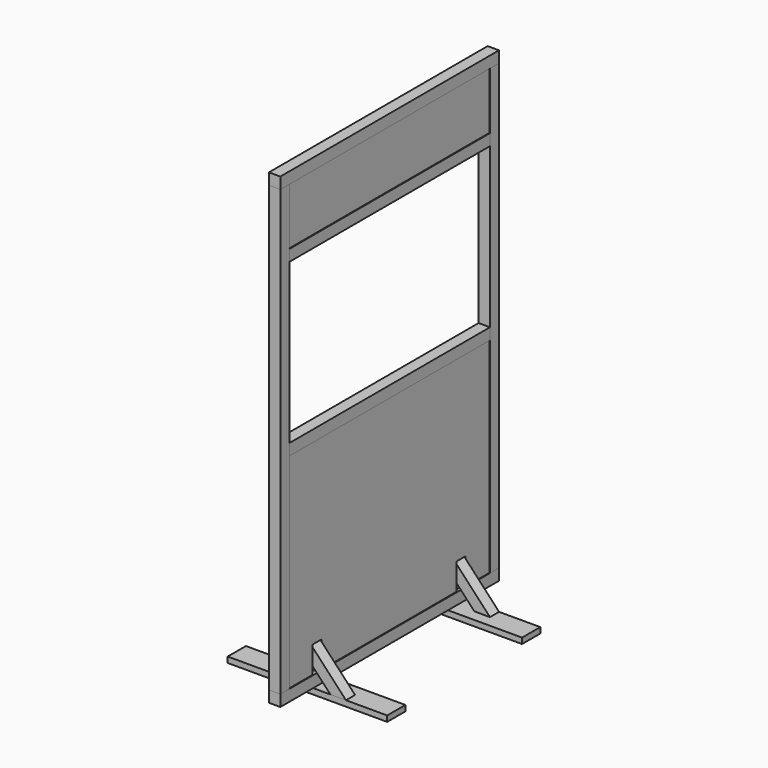
from build123d import *

# Parameters (mm, degrees)
F0_W           = 700
F0_H           = 100
F1_DEPTH       = 25
F3_W           = 50
F3_H           = 180
F3_H_2         = 100
F3_H_3         = 920
F4_DEPTH       = 50
F7_W           = 50
F7_H           = 50
F8_DEPTH       = 1950
F9_W           = 50
F9_H           = 1150
F9_H_2         = 50
F10_DEPTH      = 50
F11_W          = 50
F11_H          = 50
F12_DEPTH      = 1100
F14_DEPTH      = 13
F14_DEPTH_BACK = 13
F13_W          = 100
F13_H          = 250
F17_DEPTH      = 50
F21_DEPTH      = 9
F20_W          = 1100
F20_H          = 250


with BuildPart() as f1:
    # F0 (on Top) → F1 (new body)
    with BuildSketch(Plane.XY):
        with Locations((0, 370)):
            Rectangle(F0_W, F0_H)
    extrude(amount=F1_DEPTH)


with BuildPart() as f1b:
    # F0 (on Top) → F1, piece 2 (new body)
    with BuildSketch(Plane.XY):
        with Locations((0, -370)):
            Rectangle(F0_W, F0_H)
    extrude(amount=F1_DEPTH)


with BuildPart() as f4:
    # F3 (on face) → F4 (new body)
    with BuildSketch(Plane.XY.offset(25)):
        with Locations((0, -510)):
            Rectangle(F3_W, F3_H)
        with Locations((0, -370)):
            Rectangle(F3_W, F3_H_2)
        with Locations((0, 140)):
            Rectangle(F3_W, F3_H_3)
    extrude(amount=F4_DEPTH)


with BuildPart() as f8:
    # F7 (on face) → F8 (new body)
    with BuildSketch(Plane.XY.offset(75)):
        with Locations((0, -575)):
            Rectangle(F7_W, F7_H)
    extrude(amount=F8_DEPTH)


with BuildPart() as f8b:
    # F7 (on face) → F8, piece 2 (new body)
    with BuildSketch(Plane.XY.offset(75)):
        with Locations((0, 575)):
            Rectangle(F7_W, F7_H)
    extrude(amount=F8_DEPTH)


with BuildPart() as f10:
    # F9 (on face) → F10 (new body)
    with BuildSketch(Plane.XY.offset(2025)):
        with Locations((0, 25)):
            Rectangle(F9_W, F9_H)
        with Locations((0, -575)):
            Rectangle(F9_W, F9_H_2)
    extrude(amount=F10_DEPTH)


with BuildPart() as f12:
    # F11 (on face) → F12 (new body)
    with BuildSketch(Plane.XZ.offset(-550)):
        with Locations((0, 1000)):
            Rectangle(F11_W, F11_H)
    extrude(amount=F12_DEPTH)


with BuildPart() as f12b:
    # F11 (on face) → F12, piece 2 (new body)
    with BuildSketch(Plane.XZ.offset(-550)):
        with Locations((0, 1750)):
            Rectangle(F11_W, F11_H)
    extrude(amount=F12_DEPTH)


with BuildPart() as f14:
    # F13 (on Right) → F14 (new body, two sides)
    with BuildSketch(Plane.YZ) as f14_sk:
        Polygon((-249.2936508852, 975), (-390.6649114874, 975), (-550, 815.5519290026), (-550, 674.0804238375), align=None)
    extrude(amount=F14_DEPTH)
    extrude(f14_sk.sketch, amount=-F14_DEPTH_BACK)


with BuildPart() as f14b:
    # F13 (on Right) → F14, piece 2 (new body, two sides)
    with BuildSketch(Plane.YZ) as f14_2_sk:
        Polygon((390.6649114874, 975), (249.2936508852, 975), (550, 674.0804238375), (550, 815.5519290026), align=None)
    extrude(amount=F14_DEPTH)
    extrude(f14_2_sk.sketch, amount=-F14_DEPTH_BACK)


with BuildPart() as f14c:
    # F13 (on Right) → F14, piece 3 (new body, two sides)
    with BuildSketch(Plane.YZ) as f14_3_sk:
        Polygon((-390.6649114874, 75), (-249.2936508852, 75), (-550, 375.9195761625), (-550, 234.4480709974), align=None)
    extrude(amount=F14_DEPTH)
    extrude(f14_3_sk.sketch, amount=-F14_DEPTH_BACK)


with BuildPart() as f14d:
    # F13 (on Right) → F14, piece 4 (new body, two sides)
    with BuildSketch(Plane.YZ) as f14_4_sk:
        Polygon((550, 375.9195761625), (249.2936508852, 75), (390.6649114874, 75), (550, 234.4480709974), align=None)
    extrude(amount=F14_DEPTH)
    extrude(f14_4_sk.sketch, amount=-F14_DEPTH_BACK)


with BuildPart() as f14e:
    # F13 (on Right) → F14, piece 5 (new body, two sides)
    with BuildSketch(Plane.YZ) as f14_5_sk:
        with Locations((500, 1900)):
            Rectangle(F13_W, F13_H)
    extrude(amount=F14_DEPTH)
    extrude(f14_5_sk.sketch, amount=-F14_DEPTH_BACK)


with BuildPart() as f14f:
    # F13 (on Right) → F14, piece 6 (new body, two sides)
    with BuildSketch(Plane.YZ) as f14_6_sk:
        with Locations((-500, 1900)):
            Rectangle(F13_W, F13_H)
    extrude(amount=F14_DEPTH)
    extrude(f14_6_sk.sketch, amount=-F14_DEPTH_BACK)


with BuildPart() as f14g:
    # F13 (on Right) → F14, piece 7 (new body, two sides)
    with BuildSketch(Plane.YZ) as f14_7_sk:
        with Locations((0, 1900)):
            Rectangle(F13_W, F13_H)
    extrude(amount=F14_DEPTH)
    extrude(f14_7_sk.sketch, amount=-F14_DEPTH_BACK)


with BuildPart() as f17:
    # F16 (on offset) → F17 (new body)
    with BuildSketch(Plane.XZ.offset(-370)):
        Polygon((13, 118.9867779613), (100.7178681435, 25), (169.1110157222, 25), (13, 192.2677606344), align=None)
    extrude(amount=-F17_DEPTH)


with BuildPart() as f18_1:
    # F18: instance of F17
    add(f17.part.mirror(Plane.XZ))


with BuildPart() as f19_1:
    # F19: instance of F18_1
    add(f18_1.part.mirror(Plane.YZ))


with BuildPart() as f19_2:
    # F19: instance of F17
    add(f17.part.mirror(Plane.YZ))


with BuildPart() as f21:
    # F20 (on face) → F21 (new body)
    with BuildSketch(Plane(origin=(-13, 0, 0), x_dir=(0, -1, 0), z_dir=(-1, 0, 0))):
        Polygon((550, 75), (550, 975), (-550, 975), (-550, 75), (-420, 75), (-420, 192.2677606344), (-370, 192.2677606344), (-370, 75.1454979181), (370, 75.1454979181), (370, 192.2677606344), (420, 192.2677606344), (420, 75), align=None)
    extrude(amount=F21_DEPTH)


with BuildPart() as f21b:
    # F20 (on face) → F21, piece 2 (new body)
    with BuildSketch(Plane(origin=(-13, 0, 0), x_dir=(0, -1, 0), z_dir=(-1, 0, 0))):
        with Locations((0, 1900)):
            Rectangle(F20_W, F20_H)
    extrude(amount=F21_DEPTH)


with BuildPart() as f22_1:
    # F22: instance of F21
    add(f21.part.mirror(Plane.YZ))


with BuildPart() as f22_2:
    # F22: instance of F21b
    add(f21b.part.mirror(Plane.YZ))


solid = Compound([f1.part, f1b.part, f4.part, f8.part, f8b.part, f10.part, f12.part, f12b.part, f14.part, f14b.part, f14c.part, f14d.part, f14e.part, f14f.part, f14g.part, f17.part, f18_1.part, f19_1.part, f19_2.part, f21.part, f21b.part, f22_1.part, f22_2.part])
